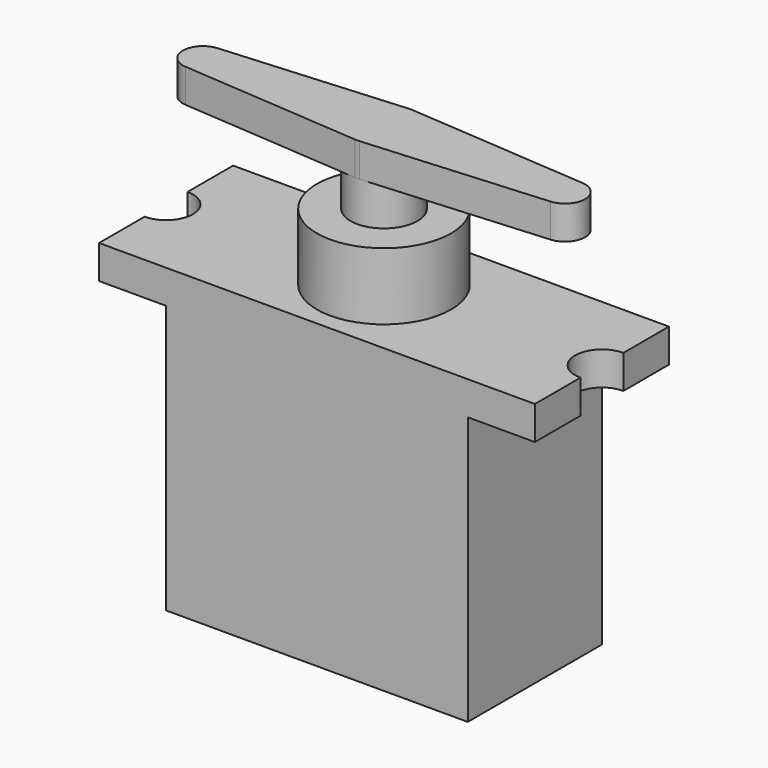
from build123d import *

# Parameters (mm, degrees)
F0_W     = 22.5
F0_H     = 12.5
F1_DEPTH = 20
F3_DEPTH = 2.5
F6_R     = 1.47809988
F7_DEPTH = 2.5


with BuildPart() as f1:
    # F0 (on Top) → F1 (new body)
    with BuildSketch(Plane.XY):
        Rectangle(F0_W, F0_H)
    extrude(amount=F1_DEPTH)

    # F2 (on face) → F3 (join)
    with BuildSketch(Plane.XY.offset(20)):
        with BuildLine():
            Line((16.25, 2), (16.25, 6.25))
            Line((16.25, 6.25), (-16.25, 6.25))
            Line((-16.25, 6.25), (-16.25, 2))
            ThreePointArc((-16.25, 2), (-14.25, 0), (-16.25, -2))
            Line((-16.25, -2), (-16.25, -6.25))
            Line((-16.25, -6.25), (16.25, -6.25))
            Line((16.25, -6.25), (16.25, -2))
            ThreePointArc((16.25, -2), (14.25, 0), (16.25, 2))
        make_face()
    extrude(amount=F3_DEPTH)

    # F4 (on Front) → F5 (revolve)
    with BuildSketch(Plane.XZ):
        Polygon((0, 22.5), (5, 22.5), (5, 27.5), (2.5, 27.5), (2.5, 30.5), (0, 30.5), align=None)
    revolve(axis=Axis((0, 0, 26.5), (0, 0, 1)))

    # F6 (on face) → F7 (join)
    with BuildSketch(Plane.XY.offset(30.5)):
        with BuildLine():
            Line((0.1851851852, -2.4931318552), (13.6111111111, -1.4958791131))
            ThreePointArc((13.6111111111, -1.4958791131), (15, 0), (13.6111111111, 1.4958791131))
            Line((13.6111111111, 1.4958791131), (0.1851851852, 2.4931318552))
            ThreePointArc((0.1851851852, 2.4931318552), (1.832070272, 1.7010345436), (2.5, 0))
            ThreePointArc((2.5, 0), (1.832070272, -1.7010345436), (0.1851851852, -2.4931318552))
        make_face()
        with BuildLine():
            ThreePointArc((-0.1851851852, -2.4931318552), (0, -2.5), (0.1851851852, -2.4931318552))
            ThreePointArc((0.1851851852, -2.4931318552), (1.832070272, -1.7010345436), (2.5, 0))
            ThreePointArc((2.5, 0), (1.832070272, 1.7010345436), (0.1851851852, 2.4931318552))
            ThreePointArc((0.1851851852, 2.4931318552), (0, 2.5), (-0.1851851852, 2.4931318552))
            ThreePointArc((-0.1851851852, 2.4931318552), (-2.5, 0), (-0.1851851852, -2.4931318552))
        make_face()
        Circle(F6_R, mode=Mode.SUBTRACT)
        with BuildLine():
            Line((-13.6111111111, -1.4958791131), (-0.1851851852, -2.4931318552))
            ThreePointArc((-0.1851851852, -2.4931318552), (-2.5, 0), (-0.1851851852, 2.4931318552))
            Line((-0.1851851852, 2.4931318552), (-13.6111111111, 1.4958791131))
            ThreePointArc((-13.6111111111, 1.4958791131), (-15, 0), (-13.6111111111, -1.4958791131))
        make_face()
        Circle(F6_R)
    extrude(amount=F7_DEPTH)


solid = f1.part
